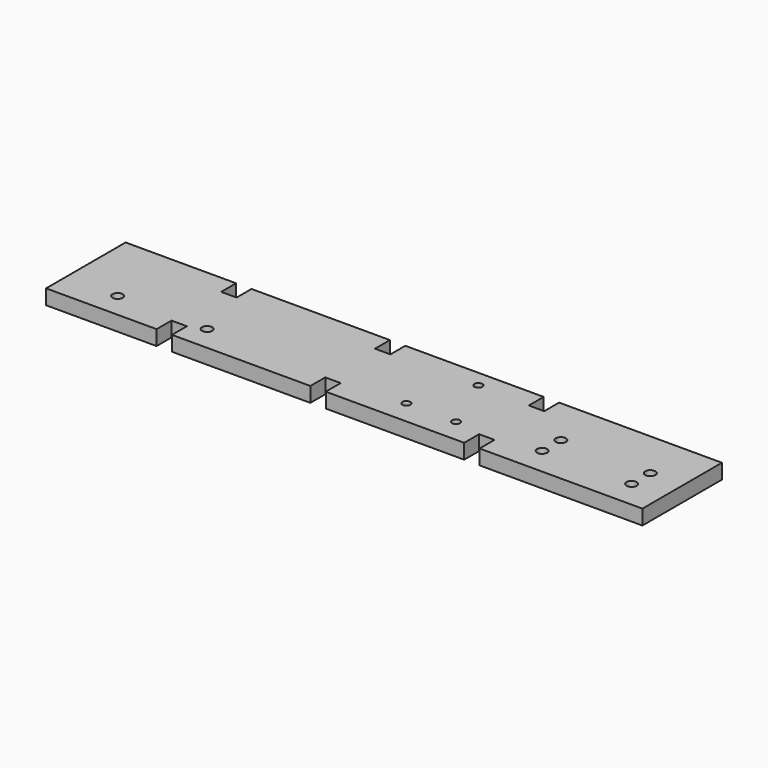
from build123d import *

# Parameters (mm, degrees)
F0_W     = 240
F0_H     = 40
F1_DEPTH = 6
F2_W     = 6.2
F2_H     = 7.5
F3_DEPTH = 6
F4_R     = 1.6
F5_R     = 2.05
F6_R     = 2.05
F7_DEPTH = 6.001
F8_DEPTH = 6.001


with BuildPart() as f1:
    # F0 (on Top) → F1 (new body)
    with BuildSketch(Plane.XY):
        with Locations((10.5305, 0)):
            Rectangle(F0_W, F0_H)
    extrude(amount=F1_DEPTH)

    # F2 (on face) → F3 (cut, through all)
    with BuildSketch(Plane.XY.offset(6)):
        with Locations((0, -16.25)):
            Rectangle(F2_W, F2_H)
        with Locations((-61.9, -16.25)):
            Rectangle(F2_W, F2_H)
        with Locations((61.9, -16.25)):
            Rectangle(F2_W, F2_H)
        with Locations((0, 16.25)):
            Rectangle(F2_W, F2_H)
        with Locations((-61.9, 16.25)):
            Rectangle(F2_W, F2_H)
        with Locations((61.9, 16.25)):
            Rectangle(F2_W, F2_H)
    extrude(amount=-F3_DEPTH, mode=Mode.SUBTRACT)

    # F4 (on face) + F5 (on face) + F6 (on face) → F7 (cut, through all)
    with BuildSketch(Plane.XY.offset(6)):
        with Locations((27.860826, -10.4)):
            Circle(F4_R)
        with Locations((47.860826, -10.4)):
            Circle(F4_R)
        with Locations((37.860826, 13.3)):
            Circle(F4_R)
    with BuildSketch(Plane.XY.offset(6)):
        with Locations((-88.650754, -10)):
            Circle(F5_R)
        with Locations((-52.650754, -10)):
            Circle(F5_R)
    with BuildSketch(Plane.XY.offset(6)):
        with Locations((81.389095, -9)):
            Circle(F6_R)
        with Locations((117.389095, -9)):
            Circle(F6_R)
        with Locations((81.389095, 0.4)):
            Circle(F6_R)
        with Locations((117.389095, 0.4)):
            Circle(F6_R)
    extrude(amount=-F7_DEPTH, mode=Mode.SUBTRACT)

    # F6 (on face) + F5 (on face) + F4 (on face) → F8 (cut, through all)
    with BuildSketch(Plane.XY.offset(6)):
        with Locations((81.389095, -9)):
            Circle(F6_R)
        with Locations((117.389095, -9)):
            Circle(F6_R)
        with Locations((81.389095, 0.4)):
            Circle(F6_R)
        with Locations((117.389095, 0.4)):
            Circle(F6_R)
    with BuildSketch(Plane.XY.offset(6)):
        with Locations((-88.650754, -10)):
            Circle(F5_R)
        with Locations((-52.650754, -10)):
            Circle(F5_R)
    with BuildSketch(Plane.XY.offset(6)):
        with Locations((27.860826, -10.4)):
            Circle(F4_R)
        with Locations((47.860826, -10.4)):
            Circle(F4_R)
        with Locations((37.860826, 13.3)):
            Circle(F4_R)
    extrude(amount=-F8_DEPTH, mode=Mode.SUBTRACT)


solid = f1.part
